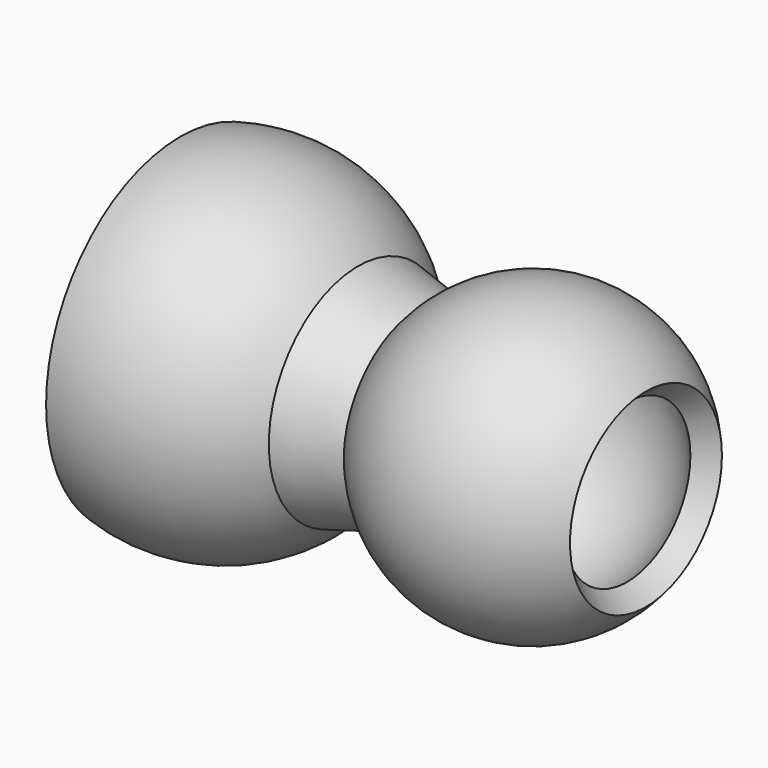
from build123d import *


with BuildPart() as f1:
    # F0 (on Top) → F1 (revolve)
    with BuildSketch(Plane.XY):
        with BuildLine():
            ThreePointArc((34.1925333174, 7.7134513162), (25, 12), (15.8074666826, 7.7134513162))
            Line((15.8074666826, 7.7134513162), (17.3395555688, 6.4278760969))
            ThreePointArc((17.3395555688, 6.4278760969), (25, 10), (32.6604444312, 6.4278760969))
            Line((32.6604444312, 6.4278760969), (34.1925333174, 7.7134513162))
        make_face()
        with BuildLine():
            Line((-3.6493485359, 13.6195541507), (-3.1317104457, 11.6877024981))
            ThreePointArc((-3.1317104457, 11.6877024981), (3.638540174, 11.5399751041), (9.2691377617, 7.7777300772))
            Line((9.2691377617, 7.7777300772), (10.801226648, 9.0633052966))
            ThreePointArc((10.801226648, 9.0633052966), (4.239951773, 13.4474090055), (-3.6493485359, 13.6195541507))
        make_face()
        with BuildLine():
            ThreePointArc((9.2691377617, 7.7777300772), (9.4613787369, 7.5426992779), (9.6476617726, 7.3029187536))
            Line((9.6476617726, 7.3029187536), (12.4939011659, 6.5354750139))
            ThreePointArc((12.4939011659, 6.5354750139), (11.7159389914, 7.8451751765), (10.801226648, 9.0633052966))
            Line((10.801226648, 9.0633052966), (9.2691377617, 7.7777300772))
        make_face()
        with BuildLine():
            ThreePointArc((15.8074666826, 7.7134513162), (15.1603102672, 6.868806735), (14.5905208651, 5.9701544486))
            Line((14.5905208651, 5.9701544486), (16.6013569102, 5.4279640981))
            ThreePointArc((16.6013569102, 5.4279640981), (16.9549065261, 5.9393998853), (17.3395555688, 6.4278760969))
            Line((17.3395555688, 6.4278760969), (15.8074666826, 7.7134513162))
        make_face()
        with BuildLine():
            ThreePointArc((10.801226648, 9.0633052966), (11.7159389914, 7.8451751765), (12.4939011659, 6.5354750139))
            Line((12.4939011659, 6.5354750139), (14.5905208651, 5.9701544486))
            ThreePointArc((14.5905208651, 5.9701544486), (15.1603102672, 6.868806735), (15.8074666826, 7.7134513162))
            Line((15.8074666826, 7.7134513162), (10.801226648, 9.0633052966))
        make_face()
    revolve(axis=Axis((12.5, 0, 0), (1, 0, 0)))


solid = f1.part
